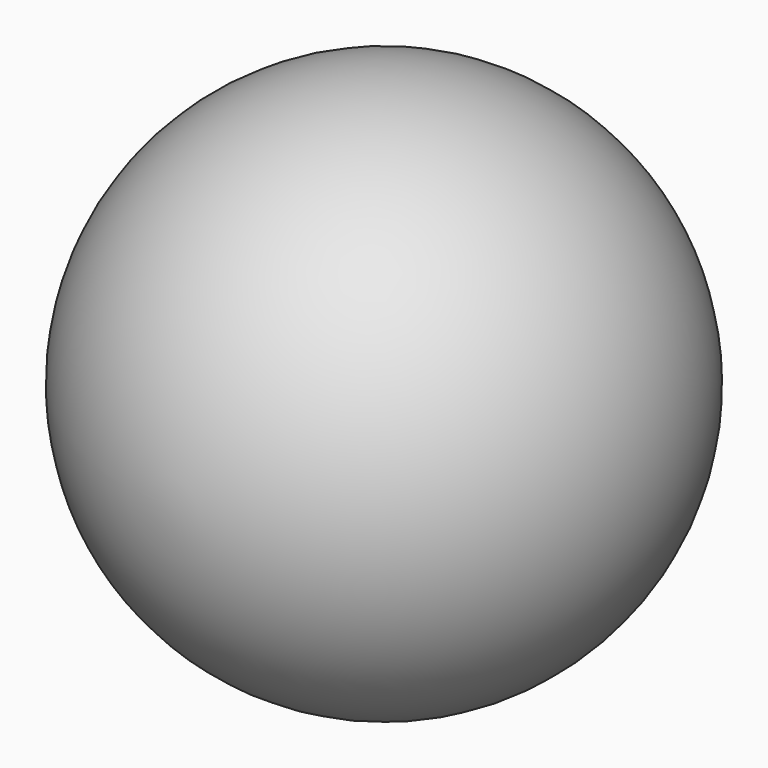
from build123d import *


with BuildPart() as f1:
    # F0 (on Top) → F1 (revolve)
    with BuildSketch(Plane.XY):
        with BuildLine():
            ThreePointArc((0, -12.7), (-11.3620086767, -5.6740425475), (-10.1525229381, 7.6299592391))
            ThreePointArc((-10.1525229381, 7.6299592391), (-15.4460527752, -10.5665316178), (0, -21.5462033483))
            Line((0, -21.5462033483), (0, -12.7))
        make_face()
        with BuildLine():
            ThreePointArc((0, -21.5462033483), (-15.4460527752, -10.5665316178), (-10.1525229381, 7.6299592391))
            Line((-10.1525229381, 7.6299592391), (-14.0944705725, 12.6082670689))
            ThreePointArc((-14.0944705725, 12.6082670689), (-21.4433336057, -12.653424677), (0, -27.8962033483))
            Line((0, -27.8962033483), (0, -21.5462033483))
        make_face()
    revolve(axis=Axis((0, -8.4488403601, 0), (0, -1, 0)))


solid = f1.part
